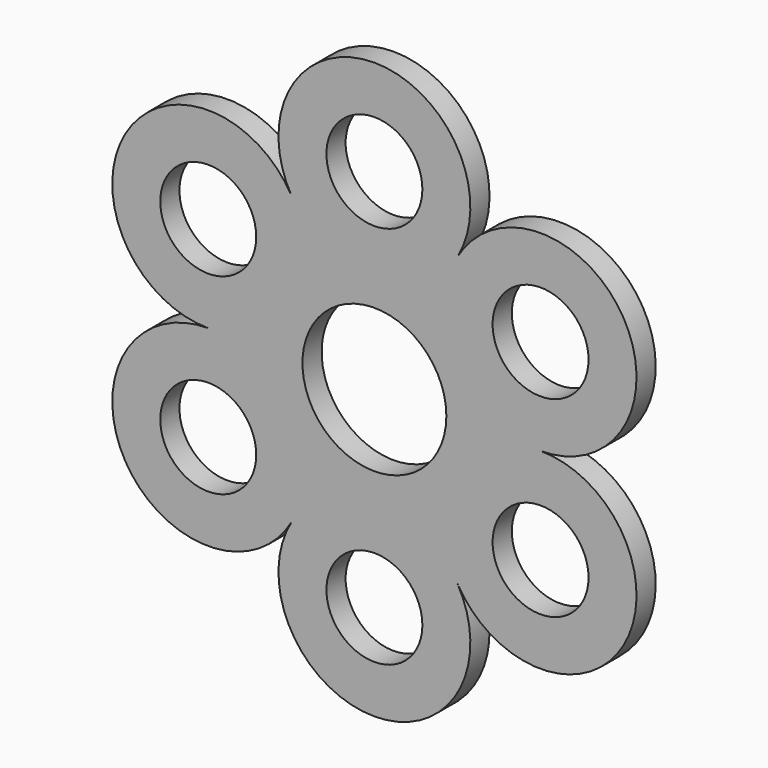
from build123d import *

# Parameters (mm, degrees)
F0_R     = 6.35
F0_R_2   = 9.525
F1_DEPTH = 3.175


with BuildPart() as f1:
    # F0 (on Front) → F1 (new body)
    with BuildSketch(Plane.XZ):
        with BuildLine():
            ThreePointArc((21.997045, 0), (32.995568, 19.05), (10.998523, 19.05))
            ThreePointArc((10.998523, 19.05), (0, 38.1), (-10.998523, 19.05))
            ThreePointArc((-10.998523, 19.05), (-32.995568, 19.05), (-21.997045, 0))
            ThreePointArc((-21.997045, 0), (-32.995568, -19.05), (-10.998523, -19.05))
            ThreePointArc((-10.998523, -19.05), (0, -38.1), (10.998523, -19.05))
            ThreePointArc((10.998523, -19.05), (32.995568, -19.05), (21.997045, 0))
        make_face()
        with Locations((-21.997045, -12.7)):
            Circle(F0_R, mode=Mode.SUBTRACT)
        with Locations((0, -25.4)):
            Circle(F0_R, mode=Mode.SUBTRACT)
        with Locations((21.997045, -12.7)):
            Circle(F0_R, mode=Mode.SUBTRACT)
        with Locations((-21.997045, 12.7)):
            Circle(F0_R, mode=Mode.SUBTRACT)
        Circle(F0_R_2, mode=Mode.SUBTRACT)
        with Locations((21.997045, 12.7)):
            Circle(F0_R, mode=Mode.SUBTRACT)
        with Locations((0, 25.4)):
            Circle(F0_R, mode=Mode.SUBTRACT)
    extrude(amount=F1_DEPTH)


solid = f1.part
